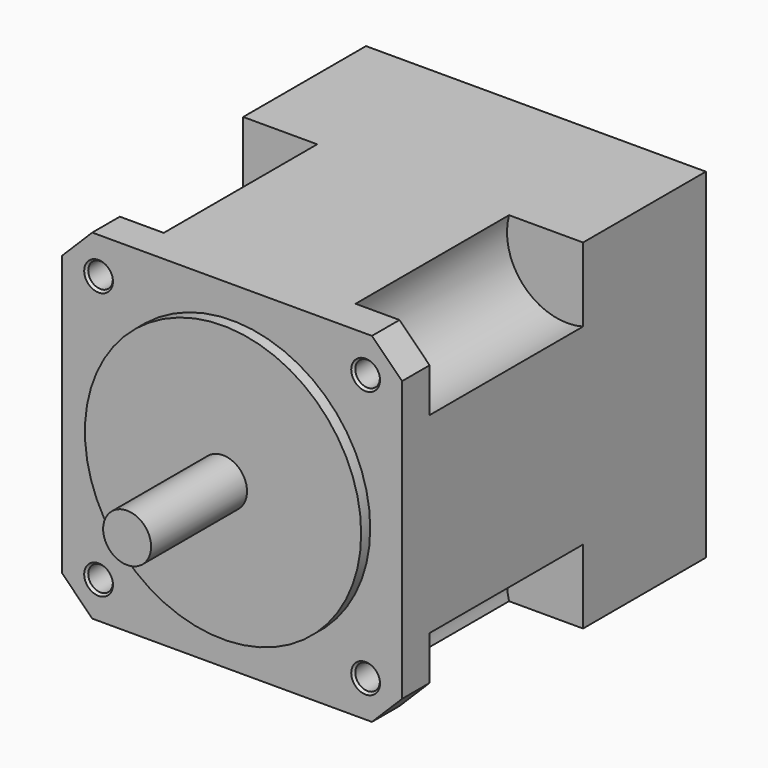
from build123d import *

# Parameters (mm, degrees)
F1_DEPTH       = 59.9186
F2_D           = 6.5024
F2_DEPTH       = 59.9186
F2_CSINK_D     = 7.62
F2_CSINK_ANGLE = 82
F2_TIP         = 1.9535180446
F3_R           = 3.2512
F4_DEPTH       = 50.8
F5_W           = 89.9922
F5_H           = 89.9922
F6_DEPTH       = 40.64
F7_R           = 6.35
F8_DEPTH       = 25.4
F9_R           = 36.576
F10_DEPTH      = 2.9972
F11_R          = 6.35
F12_DEPTH      = 31.75
F14_D          = 3.7973
F14_DEPTH      = 19.1008
F14_TIP        = 1.1408240143
F13_R          = 36.83
F15_DEPTH      = 1.905


with BuildPart() as f1:
    # F0 (on Front) → F1 (new body)
    with BuildSketch(Plane.XZ):
        Polygon((44.9961, 37.0295594098), (37.0295594098, 44.9961), (-37.0295594098, 44.9961), (-44.9961, 37.0295594098), (-44.9961, -37.0295594098), (-37.0295594098, -44.9961), (37.0295594098, -44.9961), (44.9961, -37.0295594098), align=None)
    extrude(amount=-F1_DEPTH)

    # F2
    with Locations(Plane.XZ):
        with Locations((-35.3552683486, 35.3552683486), (-35.3552683486, -35.3552683486), (35.3552683486, -35.3552683486), (35.3552683486, 35.3552683486)):
            CounterSinkHole(F2_D / 2, F2_CSINK_D / 2, depth=F2_DEPTH, counter_sink_angle=F2_CSINK_ANGLE)
            with Locations((0, 0, -(F2_DEPTH + F2_TIP / 2))):  # 118° drill point
                Cone(0, F2_D / 2, F2_TIP, mode=Mode.SUBTRACT)

    # F3 (on face) → F4 (cut)
    with BuildSketch(Plane(origin=(0, 59.9186, 0), x_dir=(-1, 0, 0), z_dir=(0, 1, 0))):
        with BuildLine():
            Line((-44.9961, 37.0295594098), (-44.9961, 25.4))
            ThreePointArc((-44.9961, 25.4), (-29.5424518432, 29.5424518432), (-25.4, 44.9961))
            Line((-25.4, 44.9961), (-37.0295594098, 44.9961))
            Line((-37.0295594098, 44.9961), (-44.9961, 37.0295594098))
        make_face()
        with Locations((-35.3552683486, 35.3552683486)):
            Circle(F3_R, mode=Mode.SUBTRACT)
        with BuildLine():
            ThreePointArc((44.9961, -25.4), (29.5424518432, -29.5424518432), (25.4, -44.9961))
            Line((25.4, -44.9961), (37.0295594098, -44.9961))
            Line((37.0295594098, -44.9961), (44.9961, -37.0295594098))
            Line((44.9961, -37.0295594098), (44.9961, -25.4))
        make_face()
        with Locations((35.3552683486, -35.3552683486)):
            Circle(F3_R, mode=Mode.SUBTRACT)
        with BuildLine():
            ThreePointArc((-25.4, -44.9961), (-29.5424518432, -29.5424518432), (-44.9961, -25.4))
            Line((-44.9961, -25.4), (-44.9961, -37.0295594098))
            Line((-44.9961, -37.0295594098), (-37.0295594098, -44.9961))
            Line((-37.0295594098, -44.9961), (-25.4, -44.9961))
        make_face()
        with Locations((-35.3552683486, -35.3552683486)):
            Circle(F3_R, mode=Mode.SUBTRACT)
        with BuildLine():
            Line((37.0295594098, 44.9961), (25.4, 44.9961))
            ThreePointArc((25.4, 44.9961), (29.5424518432, 29.5424518432), (44.9961, 25.4))
            Line((44.9961, 25.4), (44.9961, 37.0295594098))
            Line((44.9961, 37.0295594098), (37.0295594098, 44.9961))
        make_face()
        with Locations((35.3552683486, 35.3552683486)):
            Circle(F3_R, mode=Mode.SUBTRACT)
    extrude(amount=-F4_DEPTH, mode=Mode.SUBTRACT)

    # F5 (on face) → F6 (join)
    with BuildSketch(Plane(origin=(0, 59.9186, 0), x_dir=(-1, 0, 0), z_dir=(0, 1, 0))):
        Rectangle(F5_W, F5_H)
    extrude(amount=F6_DEPTH)

    # F7 (on face) → F8 (cut)
    with BuildSketch(Plane(origin=(0, 100.5586, 0), x_dir=(-1, 0, 0), z_dir=(0, 1, 0))):
        Circle(F7_R)
    extrude(amount=-F8_DEPTH, mode=Mode.SUBTRACT)

    # F9 (on face) → F10 (join)
    with BuildSketch(Plane.XZ):
        Circle(F9_R)
    extrude(amount=F10_DEPTH)

    # F11 (on face) → F12 (join)
    with BuildSketch(Plane.XZ.offset(2.9972)):
        Circle(F11_R)
    extrude(amount=F12_DEPTH)

    # F14
    with Locations(Plane(origin=(0, 100.5586, 0), x_dir=(-1, 0, 0), z_dir=(0, 1, 0))):
        with Locations((-34.8074727253, 34.8074727253), (-34.8074727253, -34.8074727253), (34.8074727253, -34.8074727253), (34.8074727253, 34.8074727253)):
            Hole(F14_D / 2, depth=F14_DEPTH)
            with Locations((0, 0, -(F14_DEPTH + F14_TIP / 2))):  # 118° drill point
                Cone(0, F14_D / 2, F14_TIP, mode=Mode.SUBTRACT)

    # F13 (on face) → F15 (cut)
    with BuildSketch(Plane(origin=(0, 100.5586, 0), x_dir=(-1, 0, 0), z_dir=(0, 1, 0))):
        Circle(F13_R)
    extrude(amount=-F15_DEPTH, mode=Mode.SUBTRACT)


solid = f1.part
